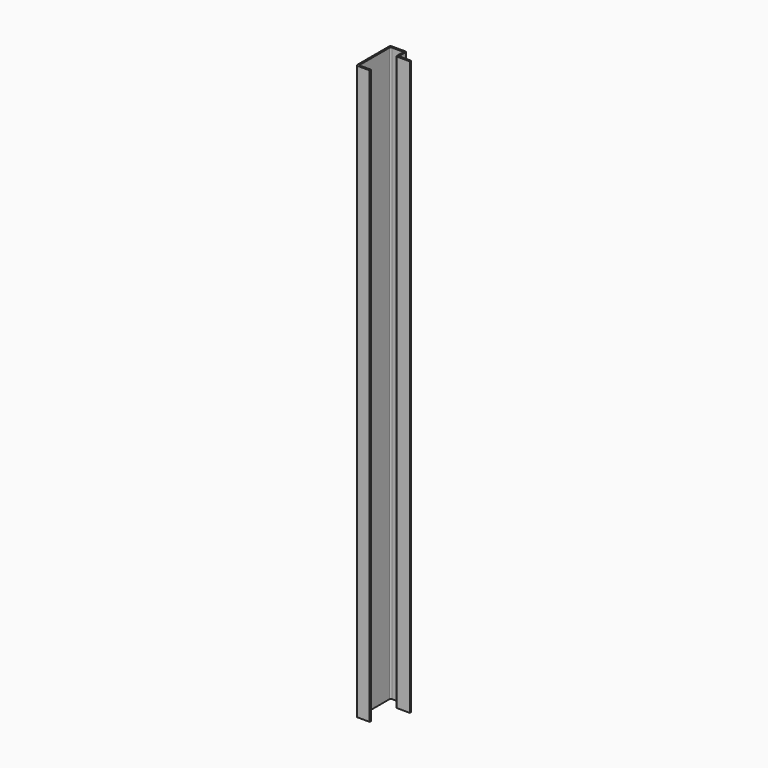
from build123d import *

# Parameters (mm, degrees)
F1_DEPTH = 2114


with BuildPart() as f1:
    # F0 (on Top) → F1 (new body)
    with BuildSketch(Plane.XY):
        with BuildLine():
            Line((-45, 0), (0, 0))
            Line((0, 0), (0, 6))
            Line((0, 6), (-39, 6))
            ThreePointArc((-39, 6), (-42.535534, 7.464466), (-44, 11))
            Line((-44, 11), (-44, 146))
            ThreePointArc((-44, 146), (-42.535534, 149.535534), (-39, 151))
            Line((-39, 151), (-1, 151))
            ThreePointArc((-1, 151), (2.535534, 149.535534), (4, 146))
            Line((4, 146), (4, 121))
            ThreePointArc((4, 121), (5.464466, 117.464466), (9, 116))
            Line((9, 116), (55, 116))
            Line((55, 116), (55, 122))
            Line((55, 122), (15, 122))
            ThreePointArc((15, 122), (11.464466, 123.464466), (10, 127))
            Line((10, 127), (10, 152))
            ThreePointArc((10, 152), (8.535534, 155.535534), (5, 157))
            Line((5, 157), (-45, 157))
            ThreePointArc((-45, 157), (-48.535534, 155.535534), (-50, 152))
            Line((-50, 152), (-50, 5))
            ThreePointArc((-50, 5), (-48.535534, 1.464466), (-45, 0))
        make_face()
    extrude(amount=F1_DEPTH)


solid = f1.part
